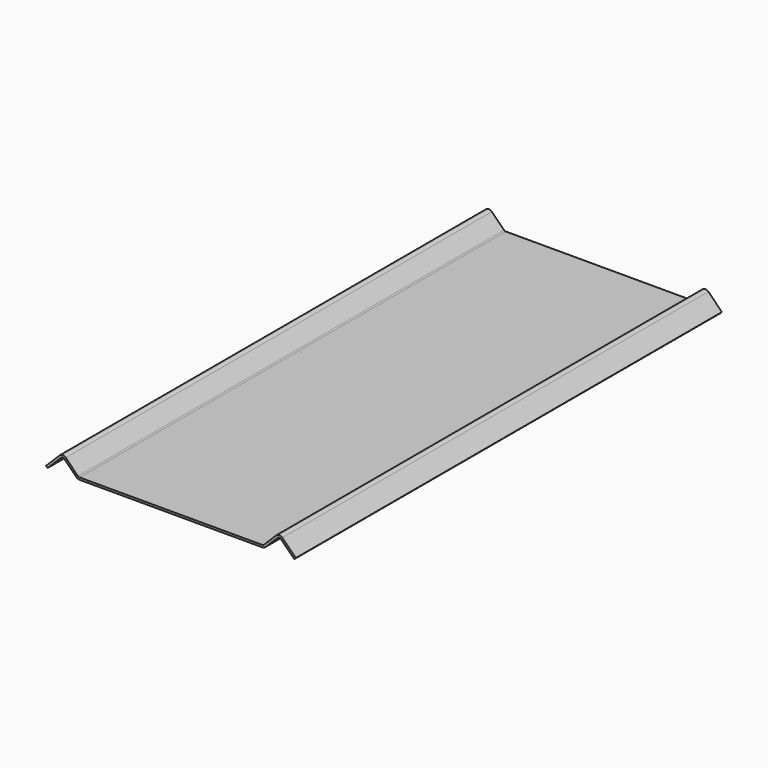
from build123d import *

# Parameters (mm, degrees)
F1_DEPTH = 1000
F2_R     = 4
F3_R     = 8


with BuildPart() as f1:
    # F0 (on Front) → F1 (new body)
    with BuildSketch(Plane.XZ):
        Polygon((-175, 0), (0, 0), (175, 0), (203.284271, 28.284271), (231.568542, 0), (234.39697, 2.828427), (203.284271, 33.941125), (173.343146, 4), (0, 4), (-173.343146, 4), (-203.284271, 33.941125), (-234.39697, 2.828427), (-231.568542, 0), (-203.284271, 28.284271), align=None)
    extrude(amount=-F1_DEPTH)

    # F2
    f2_edges = [f1.edges().sort_by_distance(p)[0] for p in [
        (-203.284271, 500, 28.284271),
        (203.284271, 500, 28.284271),
        (-173.343146, 500, 4),
        (173.343146, 500, 4),
    ]]
    fillet(f2_edges, radius=F2_R)

    # F3
    f3_edges = [f1.edges().sort_by_distance(p)[0] for p in [
        (-203.284271, 500, 33.941125),
        (203.284271, 500, 33.941125),
        (-175, 500, 0),
        (175, 500, 0),
    ]]
    fillet(f3_edges, radius=F3_R)


solid = f1.part
